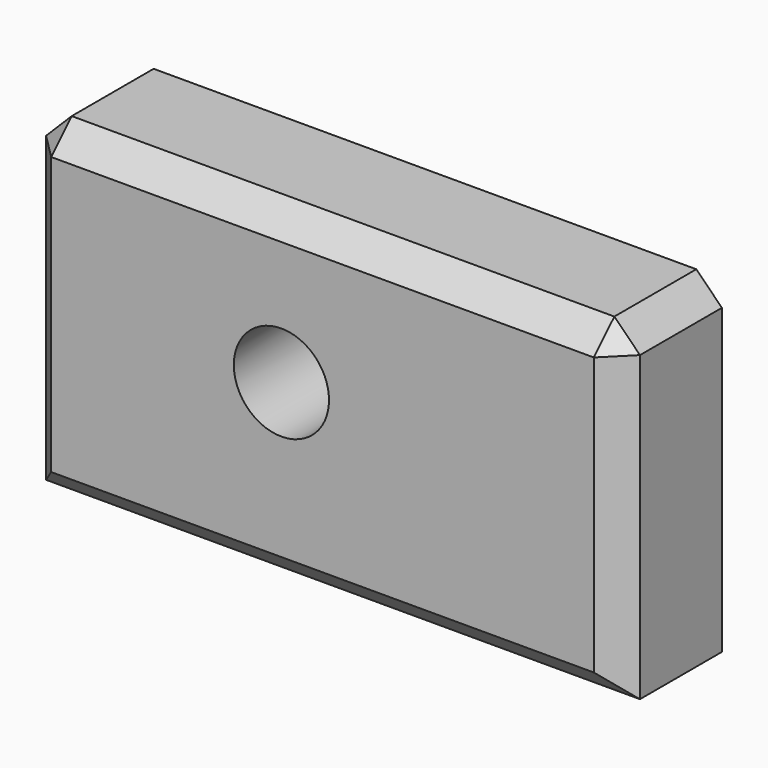
from build123d import *

# Parameters (mm, degrees)
F0_W     = 117.799587
F0_H     = 65.169983
F1_DEPTH = 25.4
F2_SIZE  = 5.08
F3_R     = 9.441262
F4_DEPTH = 25.401


with BuildPart() as f1:
    # F0 (on Front) → F1 (new body)
    with BuildSketch(Plane.XZ):
        with Locations((-7.626143, 32.584992)):
            Rectangle(F0_W, F0_H)
    extrude(amount=F1_DEPTH)

    # F2
    f2_edges = [f1.edges().sort_by_distance(p)[0] for p in [
        (-66.525936, -12.7, 65.169983),
        (-7.626142, -25.4, 65.169983),
        (-66.525936, -25.4, 32.584991),
        (-7.626142, -25.4, 0),
        (51.273651, -25.4, 32.584991),
        (51.273651, -12.7, 65.169983),
    ]]
    chamfer(f2_edges, length=F2_SIZE)

    # F3 (on face) → F4 (cut, through all)
    with BuildSketch(Plane(origin=(0, 0, 0), x_dir=(-1, 0, 0), z_dir=(0, 1, 0))):
        with Locations((15.784286, 35.560001)):
            Circle(F3_R)
    extrude(amount=-F4_DEPTH, mode=Mode.SUBTRACT)


solid = f1.part
